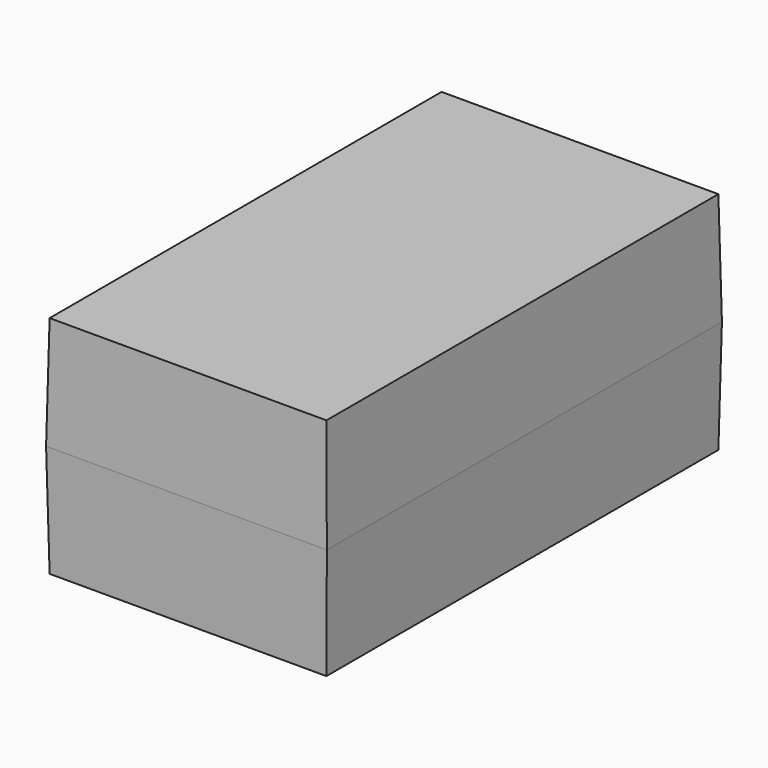
from build123d import *

# Parameters (mm, degrees)
F0_W     = 116.8592236936
F0_H     = 205.558758229
F1_DEPTH = 46.863
F1_TAPER = 1


with BuildPart() as f1:
    # F0 (on Top) → F1 (new body, symmetric)
    with BuildSketch(Plane.XY):
        with Locations((-44.6808356792, -70.3909788281)):
            Rectangle(F0_W, F0_H)
    extrude(amount=F1_DEPTH, both=True, taper=F1_TAPER)


solid = f1.part
